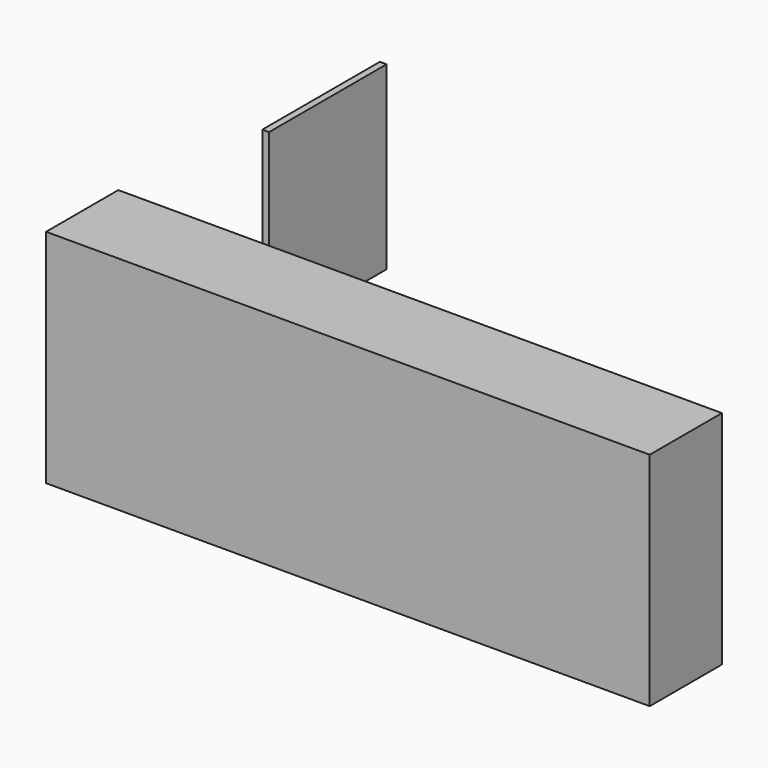
from build123d import *

# Parameters (mm, degrees)
F0_W     = 1.902476
F0_H     = 41.352222
F1_DEPTH = 50.8
F2_T     = -101.6
F3_W     = 169.909547
F3_H     = 62.310902
F4_DEPTH = 25.4


with BuildPart() as f1:
    # F0 (on Top) → F1 (new body)
    with BuildSketch(Plane.XY):
        with Locations((-132.789068, -12.408881)):
            Rectangle(F0_W, F0_H)
    extrude(amount=F1_DEPTH)

    # F2
    f2_openings = [f1.faces().sort_by_distance(p)[0] for p in [
        (-131.83783, -12.408881, 25.4),
    ]]
    offset(amount=F2_T, openings=f2_openings)

    # F3 (on face) → F4 (join)
    with BuildSketch(Plane.XZ.offset(33.084992)):
        with Locations((-89.321027, -8.516186)):
            Rectangle(F3_W, F3_H)
    extrude(amount=F4_DEPTH)


solid = f1.part
